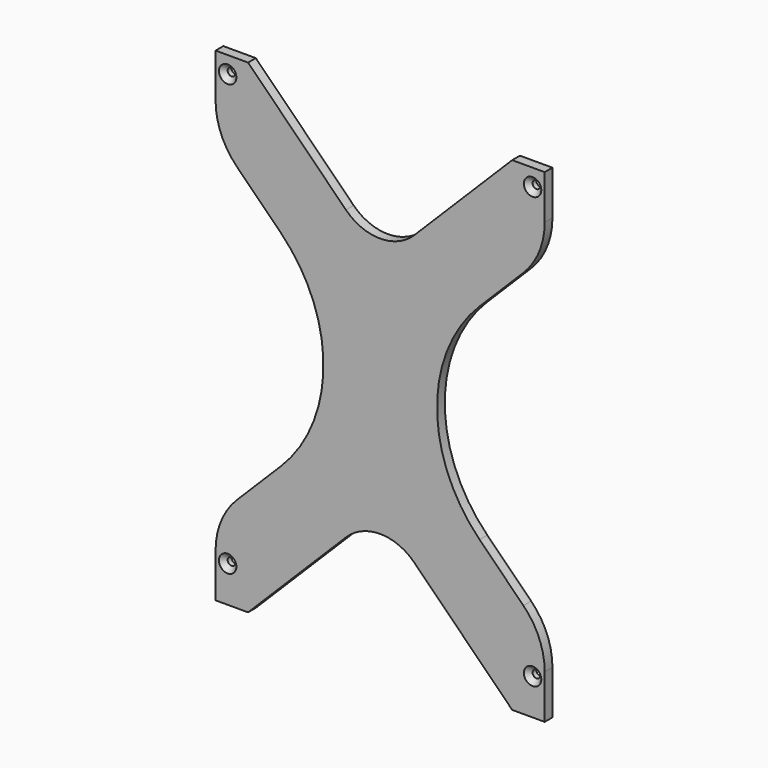
from build123d import *

# Parameters (mm, degrees)
BOX013_W               = 80
BOX013_H               = 4
BOX013_DEPTH           = 80
BOX013_PLACEMENT_ANGLE = 45
FILLET059_R            = 20
BOX017_W               = 80
BOX017_H               = 4
BOX017_DEPTH           = 80
BOX017_PLACEMENT_ANGLE = 45
FILLET060_R            = 20
BOX018_W               = 100
BOX018_H               = 4
BOX018_DEPTH           = 100
BOX018_PLACEMENT_ANGLE = 45
FILLET062_R            = 60
CYLINDER039_R          = 1.6
CYLINDER039_DEPTH      = 25
CYLINDER040_R          = 1.6
CYLINDER040_DEPTH      = 25
CYLINDER041_R          = 1.6
CYLINDER041_DEPTH      = 25
CYLINDER038_R          = 1.6
CYLINDER038_DEPTH      = 25
BOX014_W               = 100
BOX014_H               = 4
BOX014_DEPTH           = 100
BOX014_PLACEMENT_ANGLE = 45
FILLET061_R            = 60
BOX012_W               = 136
BOX012_H               = 4
BOX012_DEPTH           = 200
FILLET063_R            = 30
CHAMFER017_SIZE        = 2


with BuildPart() as fillet059:
    # Box013 → Box013 (new body)
    with BuildSketch(Plane.XY):
        with Locations((40, 2)):
            Rectangle(BOX013_W, BOX013_H)
    extrude(amount=BOX013_DEPTH)


with BuildPart() as fillet059_1:
    # Box013 placement: moved
    add(fillet059.part.moved(Location((-6.57, 0, 202))).rotate(Axis((-6.57, 0, 202), (0, 1, 0)), BOX013_PLACEMENT_ANGLE))

    # Fillet059
    fillet059_edges = [fillet059_1.edges().sort_by_distance(p)[0] for p in [
        (49.998542, 2, 145.431458),
    ]]
    fillet(fillet059_edges, radius=FILLET059_R)


with BuildPart() as fillet060:
    # Box017 → Box017 (new body)
    with BuildSketch(Plane.XY):
        with Locations((40, 2)):
            Rectangle(BOX017_W, BOX017_H)
    extrude(amount=BOX017_DEPTH)


with BuildPart() as fillet060_1:
    # Box017 placement: moved
    add(fillet060.part.moved(Location((-6.57, 0, -2))).rotate(Axis((-6.57, 0, -2), (0, 1, 0)), BOX017_PLACEMENT_ANGLE))

    # Fillet060
    fillet060_edges = [fillet060_1.edges().sort_by_distance(p)[0] for p in [
        (49.998542, 2, 54.568542),
    ]]
    fillet(fillet060_edges, radius=FILLET060_R)


with BuildPart() as fillet062:
    # Box018 → Box018 (new body)
    with BuildSketch(Plane.XY):
        with Locations((50, 2)):
            Rectangle(BOX018_W, BOX018_H)
    extrude(amount=BOX018_DEPTH)


with BuildPart() as fillet062_1:
    # Box018 placement: moved
    add(fillet062.part.moved(Location((48.67, 0, 100))).rotate(Axis((48.67, 0, 100), (0, 1, 0)), BOX018_PLACEMENT_ANGLE))

    # Fillet062
    fillet062_edges = [fillet062_1.edges().sort_by_distance(p)[0] for p in [
        (48.67, 2, 100),
    ]]
    fillet(fillet062_edges, radius=FILLET062_R)


with BuildPart() as obj1:
    # Cylinder039 → Cylinder039 (new body)
    with BuildSketch(Plane(origin=(113, -20, 15), x_dir=(1, 0, 0), z_dir=(0, 1, 0))):
        Circle(CYLINDER039_R)
    extrude(amount=CYLINDER039_DEPTH)


with BuildPart() as obj2:
    # Cylinder040 → Cylinder040 (new body)
    with BuildSketch(Plane(origin=(-13, -20, 193), x_dir=(1, 0, 0), z_dir=(0, 1, 0))):
        Circle(CYLINDER040_R)
    extrude(amount=CYLINDER040_DEPTH)


with BuildPart() as obj3:
    # Cylinder041 → Cylinder041 (new body)
    with BuildSketch(Plane(origin=(113, -20, 193), x_dir=(1, 0, 0), z_dir=(0, 1, 0))):
        Circle(CYLINDER041_R)
    extrude(amount=CYLINDER041_DEPTH)


with BuildPart() as obj4:
    # Cylinder038 → Cylinder038 (new body)
    with BuildSketch(Plane(origin=(-13, -20, 15), x_dir=(1, 0, 0), z_dir=(0, 1, 0))):
        Circle(CYLINDER038_R)
    extrude(amount=CYLINDER038_DEPTH)

    # Fusion019: union obj1, obj2, obj3
    add(obj1.part)
    add(obj2.part)
    add(obj3.part)


with BuildPart() as fusion023:
    # Box014 → Box014 (new body)
    with BuildSketch(Plane.XY):
        with Locations((50, 2)):
            Rectangle(BOX014_W, BOX014_H)
    extrude(amount=BOX014_DEPTH)


with BuildPart() as fusion023_1:
    # Box014 placement: moved
    add(fusion023.part.moved(Location((-90, 0, 100))).rotate(Axis((-90, 0, 100), (0, 1, 0)), BOX014_PLACEMENT_ANGLE))

    # Fillet061
    fillet061_edges = [fusion023_1.edges().sort_by_distance(p)[0] for p in [
        (51.421356, 2, 100),
    ]]
    fillet(fillet061_edges, radius=FILLET061_R)

    # Fusion023: union Fillet059, Fillet060, Fillet062, obj4
    add(fillet059_1.part)
    add(fillet060_1.part)
    add(fillet062_1.part)
    add(obj4.part)


with BuildPart() as support:
    # Box012 → Box012 (new body)
    with BuildSketch(Plane(origin=(-18, 0, 0), x_dir=(1, 0, 0), z_dir=(0, 0, 1))):
        with Locations((68, 2)):
            Rectangle(BOX012_W, BOX012_H)
    extrude(amount=BOX012_DEPTH)

    # Cut008: cut Fusion023
    add(fusion023_1.part, mode=Mode.SUBTRACT)

    # Fillet063
    fillet063_edges = [support.edges().sort_by_distance(p)[0] for p in [
        (-18, 2, 30.578644),
        (118, 2, 30.67),
        (118, 2, 169.33),
        (-18, 2, 169.421356),
    ]]
    fillet(fillet063_edges, radius=FILLET063_R)

    # Chamfer017
    chamfer017_edges = [support.edges().sort_by_distance(p)[0] for p in [
        (-14.6, 0, 15),
        (-14.6, 0, 193),
        (111.4, 0, 15),
        (111.4, 0, 193),
    ]]
    chamfer(chamfer017_edges, length=CHAMFER017_SIZE)


solid = support.part
